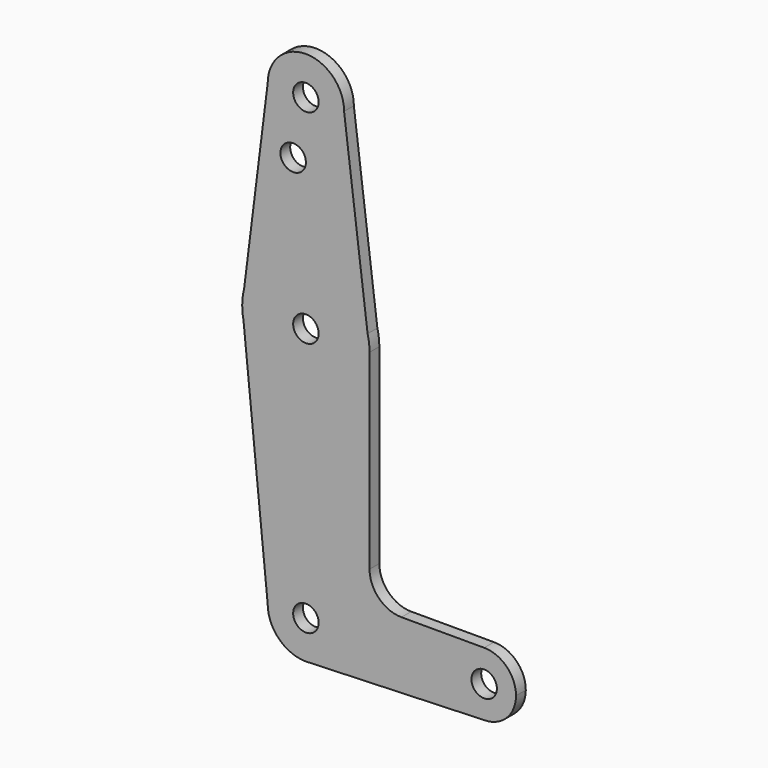
from build123d import *

# Parameters (mm, degrees)
F0_R     = 3.175
F1_DEPTH = 3.048


with BuildPart() as f1:
    # F0 (on Front) → F1 (new body)
    with BuildSketch(Plane.XZ):
        with BuildLine():
            ThreePointArc((-9.525, 114.3), (0, 104.775), (9.525, 114.3))
            ThreePointArc((9.525, 114.3), (0, 123.825), (-9.525, 114.3))
        make_face()
        with Locations((0, 114.3)):
            Circle(F0_R, mode=Mode.SUBTRACT)
        with BuildLine():
            Line((15.3865384615, 67.4076923077), (9.525, 114.3))
            ThreePointArc((9.525, 114.3), (0, 104.775), (-9.525, 114.3))
            Line((-9.525, 114.3), (-15.3865384615, 67.4076923077))
            ThreePointArc((-15.3865384615, 67.4076923077), (0, 79.375), (15.3865384615, 67.4076923077))
        make_face()
        with Locations((-3.175, 100.0252)):
            Circle(F0_R, mode=Mode.SUBTRACT)
        with BuildLine():
            Line((15.875, 63.5), (15.3865384615, 67.4076923077))
            ThreePointArc((15.3865384615, 67.4076923077), (0, 79.375), (-15.3865384615, 67.4076923077))
            Line((-15.3865384615, 67.4076923077), (-15.875, 63.5))
            Line((-15.875, 63.5), (-15.5606435644, 60.3564356436))
            ThreePointArc((-15.5606435644, 60.3564356436), (1.5796215395, 47.7037846054), (15.875, 63.5))
        make_face()
        with Locations((0, 63.5)):
            Circle(F0_R, mode=Mode.SUBTRACT)
        with BuildLine():
            ThreePointArc((15.875, 63.5), (15.7524112928, 65.4690514116), (15.3865384615, 67.4076923077))
            Line((15.3865384615, 67.4076923077), (15.875, 63.5))
        make_face()
        with BuildLine():
            Line((-15.875, 63.5), (-15.3865384615, 67.4076923077))
            ThreePointArc((-15.3865384615, 67.4076923077), (-15.7524112928, 65.4690514116), (-15.875, 63.5))
        make_face()
        with BuildLine():
            Line((15.875, 15.8877), (15.875, 63.5))
            ThreePointArc((15.875, 63.5), (1.5796215395, 47.7037846054), (-15.5606435644, 60.3564356436))
            Line((-15.5606435644, 60.3564356436), (-9.525, 0))
            ThreePointArc((-9.525, 0), (0, 9.525), (9.525, 0))
            ThreePointArc((9.525, 0), (6.9712901065, -6.4905114784), (0.6794904459, -9.5007324841))
            Line((0.6794904459, -9.5007324841), (44.45, -7.9375))
            ThreePointArc((44.45, -7.9375), (36.5125, 0), (44.45, 7.9375))
            Line((44.45, 7.9375), (23.8252, 7.9375))
            ThreePointArc((23.8252, 7.9375), (18.2035596682, 10.2660596682), (15.875, 15.8877))
        make_face()
        with BuildLine():
            Line((-15.5606435644, 60.3564356436), (-15.875, 63.5))
            ThreePointArc((-15.875, 63.5), (-15.7962153946, 61.9203784605), (-15.5606435644, 60.3564356436))
        make_face()
        with BuildLine():
            ThreePointArc((9.525, 0), (0, 9.525), (-9.525, 0))
            ThreePointArc((-9.525, 0), (-6.7351920908, -6.7351920908), (0, -9.525))
            Line((0, -9.525), (0.6794904459, -9.5007324841))
            ThreePointArc((0.6794904459, -9.5007324841), (6.9712901065, -6.4905114784), (9.525, 0))
        make_face()
        Circle(F0_R, mode=Mode.SUBTRACT)
        with BuildLine():
            Line((0.6794904459, -9.5007324841), (0, -9.525))
            ThreePointArc((0, -9.525), (0.3399618281, -9.5189311877), (0.6794904459, -9.5007324841))
        make_face()
        with BuildLine():
            ThreePointArc((52.3875, 0), (50.0626600757, 5.6126600757), (44.45, 7.9375))
            ThreePointArc((44.45, 7.9375), (36.5125, 0), (44.45, -7.9375))
            ThreePointArc((44.45, -7.9375), (50.0626600757, -5.6126600757), (52.3875, 0))
        make_face()
        with Locations((44.45, 0)):
            Circle(F0_R, mode=Mode.SUBTRACT)
    extrude(amount=F1_DEPTH)


solid = f1.part
